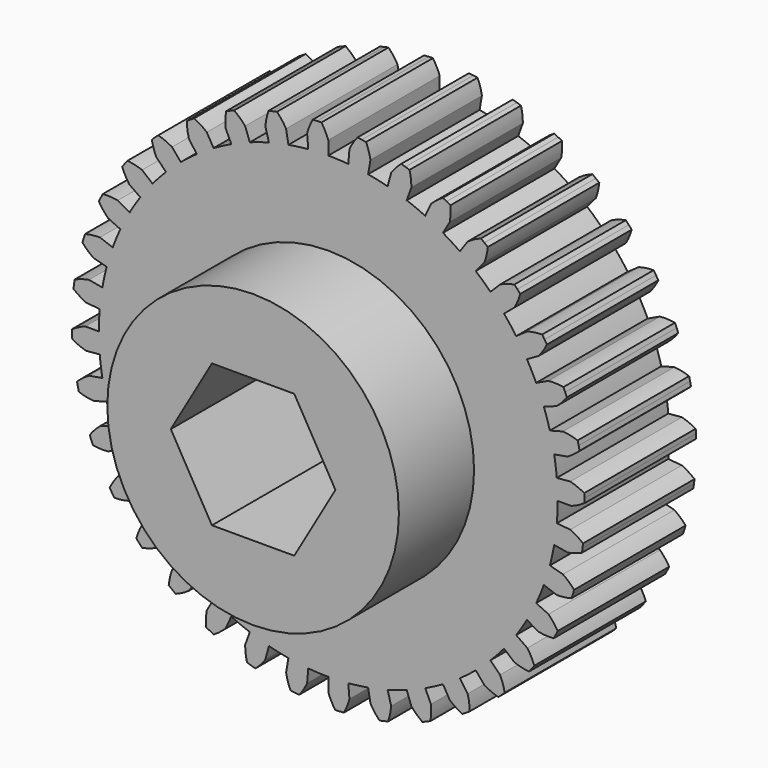
from build123d import *

# Parameters (mm, degrees)
F1_DEPTH = 10.922
F2_R     = 11.43
F3_DEPTH = 7.366
F5_DEPTH = 92.202


with BuildPart() as f1:
    # F0 (on Front) → F1 (new body)
    with BuildSketch(Plane.XZ):
        with BuildLine():
            Line((-1.660317, 18.977509), (-1.567339, 17.914768))
            ThreePointArc((-1.567339, 17.914768), (-2.347279, 17.829351), (-3.12275, 17.709995))
            Line((-3.12275, 17.709995), (-3.307998, 18.760588))
            ThreePointArc((-3.307998, 18.760588), (-3.633554, 19.251592), (-4.017242, 19.698645))
            ThreePointArc((-4.017242, 19.698645), (-4.184434, 19.663808), (-4.351324, 19.627553))
            ThreePointArc((-4.351324, 19.627553), (-4.5179, 19.589881), (-4.68415, 19.550795))
            ThreePointArc((-4.68415, 19.550795), (-4.842956, 18.983474), (-4.930503, 18.400887))
            Line((-4.930503, 18.400887), (-4.654395, 17.370437))
            ThreePointArc((-4.654395, 17.370437), (-5.407653, 17.150883), (-6.150617, 16.89868))
            Line((-6.150617, 16.89868), (-6.515484, 17.901144))
            ThreePointArc((-6.515484, 17.901144), (-6.921356, 18.328157), (-7.376844, 18.701791))
            ThreePointArc((-7.376844, 18.701791), (-7.535447, 18.638451), (-7.693506, 18.573767))
            ThreePointArc((-7.693506, 18.573767), (-7.85101, 18.507741), (-8.007947, 18.44038))
            ThreePointArc((-8.007947, 18.44038), (-8.065826, 17.854102), (-8.050878, 17.265163))
            Line((-8.050878, 17.265163), (-7.600029, 16.298314))
            ThreePointArc((-7.600029, 16.298314), (-8.303718, 15.951293), (-8.9916, 15.573908))
            Line((-8.9916, 15.573908), (-9.525, 16.497784))
            ThreePointArc((-9.525, 16.497784), (-9.998856, 16.84783), (-10.512306, 17.136694))
            ThreePointArc((-10.512306, 17.136694), (-10.6575, 17.046775), (-10.801925, 16.955626))
            ThreePointArc((-10.801925, 16.955626), (-10.945571, 16.863253), (-11.088427, 16.769664))
            ThreePointArc((-11.088427, 16.769664), (-11.04362, 16.182242), (-10.926631, 15.604846))
            Line((-10.926631, 15.604846), (-10.31474, 14.730975))
            ThreePointArc((-10.31474, 14.730975), (-10.947479, 14.267032), (-11.559378, 13.77593))
            Line((-11.559378, 13.77593), (-12.245104, 14.593147))
            ThreePointArc((-12.245104, 14.593147), (-12.772546, 14.855591), (-13.328356, 15.050906))
            ThreePointArc((-13.328356, 15.050906), (-13.45573, 14.937141), (-13.582133, 14.822297))
            ThreePointArc((-13.582133, 14.822297), (-13.707556, 14.706384), (-13.83199, 14.58941))
            ThreePointArc((-13.83199, 14.58941), (-13.68586, 14.018693), (-13.470384, 13.470384))
            Line((-13.470384, 13.470384), (-12.716043, 12.716043))
            ThreePointArc((-12.716043, 12.716043), (-13.258606, 12.149274), (-13.77593, 11.559378))
            Line((-13.77593, 11.559378), (-14.593147, 12.245104))
            ThreePointArc((-14.593147, 12.245104), (-15.158149, 12.411971), (-15.73943, 12.507804))
            ThreePointArc((-15.73943, 12.507804), (-15.845114, 12.373649), (-15.949655, 12.238601))
            ThreePointArc((-15.949655, 12.238601), (-16.053044, 12.102669), (-16.155276, 11.965864))
            ThreePointArc((-16.155276, 11.965864), (-15.912261, 11.429193), (-15.604846, 10.926631))
            Line((-15.604846, 10.926631), (-14.730975, 10.31474))
            ThreePointArc((-14.730975, 10.31474), (-15.166877, 9.662366), (-15.573908, 8.9916))
            Line((-15.573908, 8.9916), (-16.497784, 9.525))
            ThreePointArc((-16.497784, 9.525), (-17.083179, 9.591221), (-17.67227, 9.584659))
            ThreePointArc((-17.67227, 9.584659), (-17.753053, 9.43419), (-17.832554, 9.28304))
            ThreePointArc((-17.832554, 9.28304), (-17.910769, 9.131221), (-17.987691, 8.978742))
            ThreePointArc((-17.987691, 8.978742), (-17.655177, 8.492423), (-17.265163, 8.050878))
            Line((-17.265163, 8.050878), (-16.298314, 7.600029))
            ThreePointArc((-16.298314, 7.600029), (-16.61431, 6.881873), (-16.89868, 6.150617))
            Line((-16.89868, 6.150617), (-17.901144, 6.515484))
            ThreePointArc((-17.901144, 6.515484), (-18.489145, 6.479046), (-19.068148, 6.370289))
            ThreePointArc((-19.068148, 6.370289), (-19.121574, 6.208078), (-19.173621, 6.045419))
            ThreePointArc((-19.173621, 6.045419), (-19.224284, 5.882324), (-19.27356, 5.718805))
            ThreePointArc((-19.27356, 5.718805), (-18.861649, 5.297614), (-18.400887, 4.930503))
            Line((-18.400887, 4.930503), (-17.370437, 4.654395))
            ThreePointArc((-17.370437, 4.654395), (-17.556926, 3.892277), (-17.709995, 3.12275))
            Line((-17.709995, 3.12275), (-18.760588, 3.307998))
            ThreePointArc((-18.760588, 3.307998), (-19.333328, 3.170008), (-19.884649, 2.962361))
            ThreePointArc((-19.884649, 2.962361), (-19.909096, 2.793337), (-19.932107, 2.624112))
            ThreePointArc((-19.932107, 2.624112), (-19.953679, 2.454697), (-19.973811, 2.285105))
            ThreePointArc((-19.973811, 2.285105), (-19.495019, 1.941841), (-18.977509, 1.660317))
            Line((-18.977509, 1.660317), (-17.914768, 1.567339))
            ThreePointArc((-17.914768, 1.567339), (-17.966084, 0.784416), (-17.9832, 0))
            Line((-17.9832, 0), (-19.05, 0))
            ThreePointArc((-19.05, 0), (-19.590077, -0.235349), (-20.096965, -0.535577))
            ThreePointArc((-20.096965, -0.535577), (-20.09169, -0.706278), (-20.084965, -0.876929))
            ThreePointArc((-20.084965, -0.876929), (-20.076791, -1.047516), (-20.067168, -1.218027))
            ThreePointArc((-20.067168, -1.218027), (-19.536043, -1.472935), (-18.977509, -1.660317))
            Line((-18.977509, -1.660317), (-17.914768, -1.567339))
            ThreePointArc((-17.914768, -1.567339), (-17.829351, -2.347279), (-17.709995, -3.12275))
            Line((-17.709995, -3.12275), (-18.760588, -3.307998))
            ThreePointArc((-18.760588, -3.307998), (-19.251592, -3.633554), (-19.698645, -4.017242))
            ThreePointArc((-19.698645, -4.017242), (-19.663808, -4.184434), (-19.627553, -4.351324))
            ThreePointArc((-19.627553, -4.351324), (-19.589881, -4.5179), (-19.550795, -4.68415))
            ThreePointArc((-19.550795, -4.68415), (-18.983474, -4.842956), (-18.400887, -4.930503))
            Line((-18.400887, -4.930503), (-17.370437, -4.654395))
            ThreePointArc((-17.370437, -4.654395), (-17.150883, -5.407653), (-16.89868, -6.150617))
            Line((-16.89868, -6.150617), (-17.901144, -6.515484))
            ThreePointArc((-17.901144, -6.515484), (-18.328157, -6.921356), (-18.701791, -7.376844))
            ThreePointArc((-18.701791, -7.376844), (-18.638451, -7.535447), (-18.573767, -7.693506))
            ThreePointArc((-18.573767, -7.693506), (-18.507741, -7.85101), (-18.44038, -8.007947))
            ThreePointArc((-18.44038, -8.007947), (-17.854102, -8.065826), (-17.265163, -8.050878))
            Line((-17.265163, -8.050878), (-16.298314, -7.600029))
            ThreePointArc((-16.298314, -7.600029), (-15.951293, -8.303718), (-15.573908, -8.9916))
            Line((-15.573908, -8.9916), (-16.497784, -9.525))
            ThreePointArc((-16.497784, -9.525), (-16.84783, -9.998856), (-17.136694, -10.512306))
            ThreePointArc((-17.136694, -10.512306), (-17.046775, -10.6575), (-16.955626, -10.801925))
            ThreePointArc((-16.955626, -10.801925), (-16.863253, -10.945571), (-16.769664, -11.088427))
            ThreePointArc((-16.769664, -11.088427), (-16.182242, -11.04362), (-15.604846, -10.926631))
            Line((-15.604846, -10.926631), (-14.730975, -10.31474))
            ThreePointArc((-14.730975, -10.31474), (-14.267032, -10.947479), (-13.77593, -11.559378))
            Line((-13.77593, -11.559378), (-14.593147, -12.245104))
            ThreePointArc((-14.593147, -12.245104), (-14.855591, -12.772546), (-15.050906, -13.328356))
            ThreePointArc((-15.050906, -13.328356), (-14.937141, -13.45573), (-14.822297, -13.582133))
            ThreePointArc((-14.822297, -13.582133), (-14.706384, -13.707556), (-14.58941, -13.83199))
            ThreePointArc((-14.58941, -13.83199), (-14.018693, -13.68586), (-13.470384, -13.470384))
            Line((-13.470384, -13.470384), (-12.716043, -12.716043))
            ThreePointArc((-12.716043, -12.716043), (-12.149274, -13.258606), (-11.559378, -13.77593))
            Line((-11.559378, -13.77593), (-12.245104, -14.593147))
            ThreePointArc((-12.245104, -14.593147), (-12.411971, -15.158149), (-12.507804, -15.73943))
            ThreePointArc((-12.507804, -15.73943), (-12.373649, -15.845114), (-12.238601, -15.949655))
            ThreePointArc((-12.238601, -15.949655), (-12.102669, -16.053044), (-11.965864, -16.155276))
            ThreePointArc((-11.965864, -16.155276), (-11.429193, -15.912261), (-10.926631, -15.604846))
            Line((-10.926631, -15.604846), (-10.31474, -14.730975))
            ThreePointArc((-10.31474, -14.730975), (-9.662366, -15.166877), (-8.9916, -15.573908))
            Line((-8.9916, -15.573908), (-9.525, -16.497784))
            ThreePointArc((-9.525, -16.497784), (-9.591221, -17.083179), (-9.584659, -17.67227))
            ThreePointArc((-9.584659, -17.67227), (-9.43419, -17.753053), (-9.28304, -17.832554))
            ThreePointArc((-9.28304, -17.832554), (-9.131221, -17.910769), (-8.978742, -17.987691))
            ThreePointArc((-8.978742, -17.987691), (-8.492423, -17.655177), (-8.050878, -17.265163))
            Line((-8.050878, -17.265163), (-7.600029, -16.298314))
            ThreePointArc((-7.600029, -16.298314), (-6.881873, -16.61431), (-6.150617, -16.89868))
            Line((-6.150617, -16.89868), (-6.515484, -17.901144))
            ThreePointArc((-6.515484, -17.901144), (-6.479046, -18.489145), (-6.370289, -19.068148))
            ThreePointArc((-6.370289, -19.068148), (-6.208078, -19.121574), (-6.045419, -19.173621))
            ThreePointArc((-6.045419, -19.173621), (-5.882324, -19.224284), (-5.718805, -19.27356))
            ThreePointArc((-5.718805, -19.27356), (-5.297614, -18.861649), (-4.930503, -18.400887))
            Line((-4.930503, -18.400887), (-4.654395, -17.370437))
            ThreePointArc((-4.654395, -17.370437), (-3.892277, -17.556926), (-3.12275, -17.709995))
            Line((-3.12275, -17.709995), (-3.307998, -18.760588))
            ThreePointArc((-3.307998, -18.760588), (-3.170008, -19.333328), (-2.962361, -19.884649))
            ThreePointArc((-2.962361, -19.884649), (-2.793337, -19.909096), (-2.624112, -19.932107))
            ThreePointArc((-2.624112, -19.932107), (-2.454697, -19.953679), (-2.285105, -19.973811))
            ThreePointArc((-2.285105, -19.973811), (-1.941841, -19.495019), (-1.660317, -18.977509))
            Line((-1.660317, -18.977509), (-1.567339, -17.914768))
            ThreePointArc((-1.567339, -17.914768), (-0.784416, -17.966084), (0, -17.9832))
            Line((0, -17.9832), (0, -19.05))
            ThreePointArc((0, -19.05), (0.235349, -19.590077), (0.535577, -20.096965))
            ThreePointArc((0.535577, -20.096965), (0.706278, -20.09169), (0.876929, -20.084965))
            ThreePointArc((0.876929, -20.084965), (1.047516, -20.076791), (1.218027, -20.067168))
            ThreePointArc((1.218027, -20.067168), (1.472935, -19.536043), (1.660317, -18.977509))
            Line((1.660317, -18.977509), (1.567339, -17.914768))
            ThreePointArc((1.567339, -17.914768), (2.347279, -17.829351), (3.12275, -17.709995))
            Line((3.12275, -17.709995), (3.307998, -18.760588))
            ThreePointArc((3.307998, -18.760588), (3.633554, -19.251592), (4.017242, -19.698645))
            ThreePointArc((4.017242, -19.698645), (4.184434, -19.663808), (4.351324, -19.627553))
            ThreePointArc((4.351324, -19.627553), (4.5179, -19.589881), (4.68415, -19.550795))
            ThreePointArc((4.68415, -19.550795), (4.842956, -18.983474), (4.930503, -18.400887))
            Line((4.930503, -18.400887), (4.654395, -17.370437))
            ThreePointArc((4.654395, -17.370437), (5.407653, -17.150883), (6.150617, -16.89868))
            Line((6.150617, -16.89868), (6.515484, -17.901144))
            ThreePointArc((6.515484, -17.901144), (6.921356, -18.328157), (7.376844, -18.701791))
            ThreePointArc((7.376844, -18.701791), (7.535447, -18.638451), (7.693506, -18.573767))
            ThreePointArc((7.693506, -18.573767), (7.85101, -18.507741), (8.007947, -18.44038))
            ThreePointArc((8.007947, -18.44038), (8.065826, -17.854102), (8.050878, -17.265163))
            Line((8.050878, -17.265163), (7.600029, -16.298314))
            ThreePointArc((7.600029, -16.298314), (8.303718, -15.951293), (8.9916, -15.573908))
            Line((8.9916, -15.573908), (9.525, -16.497784))
            ThreePointArc((9.525, -16.497784), (9.998856, -16.84783), (10.512306, -17.136694))
            ThreePointArc((10.512306, -17.136694), (10.6575, -17.046775), (10.801925, -16.955626))
            ThreePointArc((10.801925, -16.955626), (10.945571, -16.863253), (11.088427, -16.769664))
            ThreePointArc((11.088427, -16.769664), (11.04362, -16.182242), (10.926631, -15.604846))
            Line((10.926631, -15.604846), (10.31474, -14.730975))
            ThreePointArc((10.31474, -14.730975), (10.947479, -14.267032), (11.559378, -13.77593))
            Line((11.559378, -13.77593), (12.245104, -14.593147))
            ThreePointArc((12.245104, -14.593147), (12.772546, -14.855591), (13.328356, -15.050906))
            ThreePointArc((13.328356, -15.050906), (13.45573, -14.937141), (13.582133, -14.822297))
            ThreePointArc((13.582133, -14.822297), (13.707556, -14.706384), (13.83199, -14.58941))
            ThreePointArc((13.83199, -14.58941), (13.68586, -14.018693), (13.470384, -13.470384))
            Line((13.470384, -13.470384), (12.716043, -12.716043))
            ThreePointArc((12.716043, -12.716043), (13.258606, -12.149274), (13.77593, -11.559378))
            Line((13.77593, -11.559378), (14.593147, -12.245104))
            ThreePointArc((14.593147, -12.245104), (15.158149, -12.411971), (15.73943, -12.507804))
            ThreePointArc((15.73943, -12.507804), (15.845114, -12.373649), (15.949655, -12.238601))
            ThreePointArc((15.949655, -12.238601), (16.053044, -12.102669), (16.155276, -11.965864))
            ThreePointArc((16.155276, -11.965864), (15.912261, -11.429193), (15.604846, -10.926631))
            Line((15.604846, -10.926631), (14.730975, -10.31474))
            ThreePointArc((14.730975, -10.31474), (15.166877, -9.662366), (15.573908, -8.9916))
            Line((15.573908, -8.9916), (16.497784, -9.525))
            ThreePointArc((16.497784, -9.525), (17.083179, -9.591221), (17.67227, -9.584659))
            ThreePointArc((17.67227, -9.584659), (17.753053, -9.43419), (17.832554, -9.28304))
            ThreePointArc((17.832554, -9.28304), (17.910769, -9.131221), (17.987691, -8.978742))
            ThreePointArc((17.987691, -8.978742), (17.655177, -8.492423), (17.265163, -8.050878))
            Line((17.265163, -8.050878), (16.298314, -7.600029))
            ThreePointArc((16.298314, -7.600029), (16.61431, -6.881873), (16.89868, -6.150617))
            Line((16.89868, -6.150617), (17.901144, -6.515484))
            ThreePointArc((17.901144, -6.515484), (18.489145, -6.479046), (19.068148, -6.370289))
            ThreePointArc((19.068148, -6.370289), (19.121574, -6.208078), (19.173621, -6.045419))
            ThreePointArc((19.173621, -6.045419), (19.224284, -5.882324), (19.27356, -5.718805))
            ThreePointArc((19.27356, -5.718805), (18.861649, -5.297614), (18.400887, -4.930503))
            Line((18.400887, -4.930503), (17.370437, -4.654395))
            ThreePointArc((17.370437, -4.654395), (17.556926, -3.892277), (17.709995, -3.12275))
            Line((17.709995, -3.12275), (18.760588, -3.307998))
            ThreePointArc((18.760588, -3.307998), (19.333328, -3.170008), (19.884649, -2.962361))
            ThreePointArc((19.884649, -2.962361), (19.909096, -2.793337), (19.932107, -2.624112))
            ThreePointArc((19.932107, -2.624112), (19.953679, -2.454697), (19.973811, -2.285105))
            ThreePointArc((19.973811, -2.285105), (19.495019, -1.941841), (18.977509, -1.660317))
            Line((18.977509, -1.660317), (17.914768, -1.567339))
            ThreePointArc((17.914768, -1.567339), (17.966084, -0.784416), (17.9832, 0))
            Line((17.9832, 0), (19.05, 0))
            ThreePointArc((19.05, 0), (19.590077, 0.235349), (20.096965, 0.535577))
            ThreePointArc((20.096965, 0.535577), (20.09169, 0.706278), (20.084965, 0.876929))
            ThreePointArc((20.084965, 0.876929), (20.076791, 1.047516), (20.067168, 1.218027))
            ThreePointArc((20.067168, 1.218027), (19.536043, 1.472935), (18.977509, 1.660317))
            Line((18.977509, 1.660317), (17.914768, 1.567339))
            ThreePointArc((17.914768, 1.567339), (17.829351, 2.347279), (17.709995, 3.12275))
            Line((17.709995, 3.12275), (18.760588, 3.307998))
            ThreePointArc((18.760588, 3.307998), (19.251592, 3.633554), (19.698645, 4.017242))
            ThreePointArc((19.698645, 4.017242), (19.663808, 4.184434), (19.627553, 4.351324))
            ThreePointArc((19.627553, 4.351324), (19.589881, 4.5179), (19.550795, 4.68415))
            ThreePointArc((19.550795, 4.68415), (18.983474, 4.842956), (18.400887, 4.930503))
            Line((18.400887, 4.930503), (17.370437, 4.654395))
            ThreePointArc((17.370437, 4.654395), (17.150883, 5.407653), (16.89868, 6.150617))
            Line((16.89868, 6.150617), (17.901144, 6.515484))
            ThreePointArc((17.901144, 6.515484), (18.328157, 6.921356), (18.701791, 7.376844))
            ThreePointArc((18.701791, 7.376844), (18.638451, 7.535447), (18.573767, 7.693506))
            ThreePointArc((18.573767, 7.693506), (18.507741, 7.85101), (18.44038, 8.007947))
            ThreePointArc((18.44038, 8.007947), (17.854102, 8.065826), (17.265163, 8.050878))
            Line((17.265163, 8.050878), (16.298314, 7.600029))
            ThreePointArc((16.298314, 7.600029), (15.951293, 8.303718), (15.573908, 8.9916))
            Line((15.573908, 8.9916), (16.497784, 9.525))
            ThreePointArc((16.497784, 9.525), (16.84783, 9.998856), (17.136694, 10.512306))
            ThreePointArc((17.136694, 10.512306), (17.046775, 10.6575), (16.955626, 10.801925))
            ThreePointArc((16.955626, 10.801925), (16.863253, 10.945571), (16.769664, 11.088427))
            ThreePointArc((16.769664, 11.088427), (16.182242, 11.04362), (15.604846, 10.926631))
            Line((15.604846, 10.926631), (14.730975, 10.31474))
            ThreePointArc((14.730975, 10.31474), (14.267032, 10.947479), (13.77593, 11.559378))
            Line((13.77593, 11.559378), (14.593147, 12.245104))
            ThreePointArc((14.593147, 12.245104), (14.855591, 12.772546), (15.050906, 13.328356))
            ThreePointArc((15.050906, 13.328356), (14.937141, 13.45573), (14.822297, 13.582133))
            ThreePointArc((14.822297, 13.582133), (14.706384, 13.707556), (14.58941, 13.83199))
            ThreePointArc((14.58941, 13.83199), (14.018693, 13.68586), (13.470384, 13.470384))
            Line((13.470384, 13.470384), (12.716043, 12.716043))
            ThreePointArc((12.716043, 12.716043), (12.149274, 13.258606), (11.559378, 13.77593))
            Line((11.559378, 13.77593), (12.245104, 14.593147))
            ThreePointArc((12.245104, 14.593147), (12.411971, 15.158149), (12.507804, 15.73943))
            ThreePointArc((12.507804, 15.73943), (12.373649, 15.845114), (12.238601, 15.949655))
            ThreePointArc((12.238601, 15.949655), (12.102669, 16.053044), (11.965864, 16.155276))
            ThreePointArc((11.965864, 16.155276), (11.429193, 15.912261), (10.926631, 15.604846))
            Line((10.926631, 15.604846), (10.31474, 14.730975))
            ThreePointArc((10.31474, 14.730975), (9.662366, 15.166877), (8.9916, 15.573908))
            Line((8.9916, 15.573908), (9.525, 16.497784))
            ThreePointArc((9.525, 16.497784), (9.591221, 17.083179), (9.584659, 17.67227))
            ThreePointArc((9.584659, 17.67227), (9.43419, 17.753053), (9.28304, 17.832554))
            ThreePointArc((9.28304, 17.832554), (9.131221, 17.910769), (8.978742, 17.987691))
            ThreePointArc((8.978742, 17.987691), (8.492423, 17.655177), (8.050878, 17.265163))
            Line((8.050878, 17.265163), (7.600029, 16.298314))
            ThreePointArc((7.600029, 16.298314), (6.881873, 16.61431), (6.150617, 16.89868))
            Line((6.150617, 16.89868), (6.515484, 17.901144))
            ThreePointArc((6.515484, 17.901144), (6.479046, 18.489145), (6.370289, 19.068148))
            ThreePointArc((6.370289, 19.068148), (6.208078, 19.121574), (6.045419, 19.173621))
            ThreePointArc((6.045419, 19.173621), (5.882324, 19.224284), (5.718805, 19.27356))
            ThreePointArc((5.718805, 19.27356), (5.297614, 18.861649), (4.930503, 18.400887))
            Line((4.930503, 18.400887), (4.654395, 17.370437))
            ThreePointArc((4.654395, 17.370437), (3.892277, 17.556926), (3.12275, 17.709995))
            Line((3.12275, 17.709995), (3.307998, 18.760588))
            ThreePointArc((3.307998, 18.760588), (3.170008, 19.333328), (2.962361, 19.884649))
            ThreePointArc((2.962361, 19.884649), (2.793337, 19.909096), (2.624112, 19.932107))
            ThreePointArc((2.624112, 19.932107), (2.454697, 19.953679), (2.285105, 19.973811))
            ThreePointArc((2.285105, 19.973811), (1.941841, 19.495019), (1.660317, 18.977509))
            Line((1.660317, 18.977509), (1.567339, 17.914768))
            ThreePointArc((1.567339, 17.914768), (0.784416, 17.966084), (0, 17.9832))
            Line((0, 17.9832), (0, 19.05))
            ThreePointArc((0, 19.05), (-0.235349, 19.590077), (-0.535577, 20.096965))
            ThreePointArc((-0.535577, 20.096965), (-0.706278, 20.09169), (-0.876929, 20.084965))
            ThreePointArc((-0.876929, 20.084965), (-1.047516, 20.076791), (-1.218027, 20.067168))
            ThreePointArc((-1.218027, 20.067168), (-1.472935, 19.536043), (-1.660317, 18.977509))
        make_face()
    extrude(amount=F1_DEPTH)

    # F2 (on face) → F3 (join)
    with BuildSketch(Plane.XZ.offset(10.922)):
        Circle(F2_R)
    extrude(amount=F3_DEPTH)

    # F4 (on face) → F5 (cut)
    with BuildSketch(Plane.XZ.offset(18.288)):
        Polygon((3.226233, 5.588), (-3.226233, 5.588), (-6.452467, 0), (-3.226233, -5.588), (3.226233, -5.588), (6.452467, 0), align=None)
    extrude(amount=-F5_DEPTH, mode=Mode.SUBTRACT)


solid = f1.part
